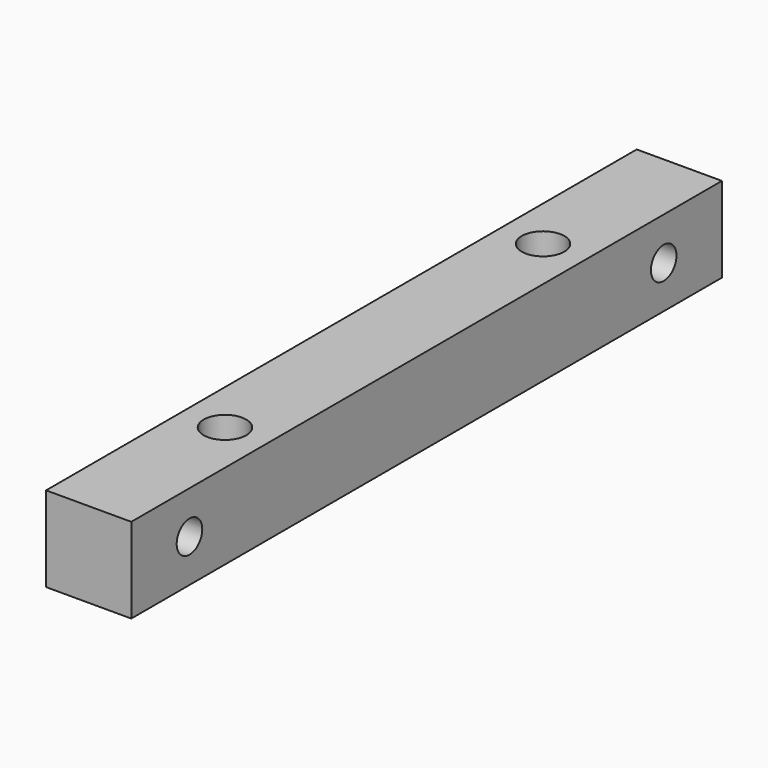
from build123d import *

# Parameters (mm, degrees)
F0_W     = 9.525
F0_H     = 9.525
F1_DEPTH = 41.275
F2_R     = 1.785938
F4_DEPTH = 9.525
F3_R     = 1.785938
F5_DEPTH = 9.525
F6_R     = 2.38125
F8_DEPTH = 9.525
F7_R     = 2.38125
F9_DEPTH = 9.525


with BuildPart() as f1:
    # F0 (on Front) → F1 (new body, symmetric)
    with BuildSketch(Plane.XZ):
        Rectangle(F0_W, F0_H)
    extrude(amount=F1_DEPTH, both=True)

    # F2 (on face) → F4 (cut)
    with BuildSketch(Plane.YZ.offset(4.7625)):
        with Locations((-33.139063, 0)):
            Circle(F2_R)
    extrude(amount=-F4_DEPTH, mode=Mode.SUBTRACT)

    # F3 (on face) → F5 (cut)
    with BuildSketch(Plane.YZ.offset(4.7625)):
        with Locations((33.139063, 0)):
            Circle(F3_R)
    extrude(amount=-F5_DEPTH, mode=Mode.SUBTRACT)

    # F6 (on face) → F8 (cut)
    with BuildSketch(Plane.XY.offset(4.7625)):
        with Locations((0, 22.225)):
            Circle(F6_R)
    extrude(amount=-F8_DEPTH, mode=Mode.SUBTRACT)

    # F7 (on face) → F9 (cut)
    with BuildSketch(Plane.XY.offset(4.7625)):
        with Locations((0, -22.225)):
            Circle(F7_R)
    extrude(amount=-F9_DEPTH, mode=Mode.SUBTRACT)


solid = f1.part
